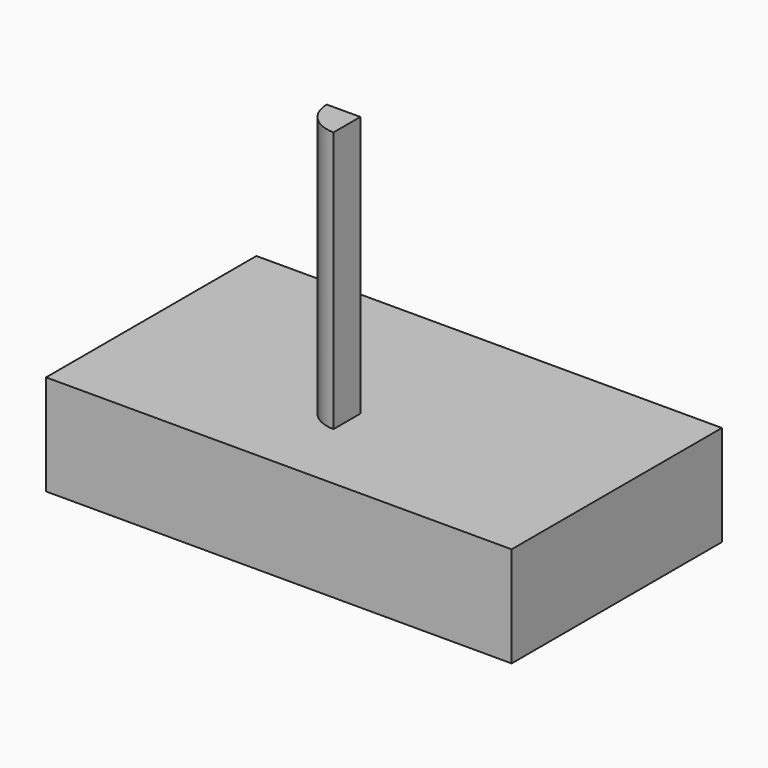
from build123d import *

# Parameters (mm, degrees)
F1_DEPTH      = 16.98069
F1_DEPTH_BACK = 25.4
F2_W          = 5.4000006057
F2_H          = 50.1300022006
F3_ANGLE      = 90


with BuildPart() as f1:
    # F0 (on Front) → F1 (new body, two sides)
    with BuildSketch(Plane.XZ) as f1_sk:
        Polygon((-37.080001086, -8.1900004297), (37.9800014198, -8.1900004297), (37.9800014198, 8.0099999905), (0, 8.0099999905), (-37.080001086, 8.0099999905), align=None)
    extrude(amount=F1_DEPTH)
    extrude(f1_sk.sketch, amount=-F1_DEPTH_BACK)

    # F2 (on Front) → F3 (revolve)
    with BuildSketch(Plane.XZ):
        with Locations((-2.7000003029, 25.0650011003)):
            Rectangle(F2_W, F2_H)
    revolve(axis=Axis((0, 0, 25.0650011003), (0, 0, 1)), revolution_arc=F3_ANGLE)


solid = f1.part
